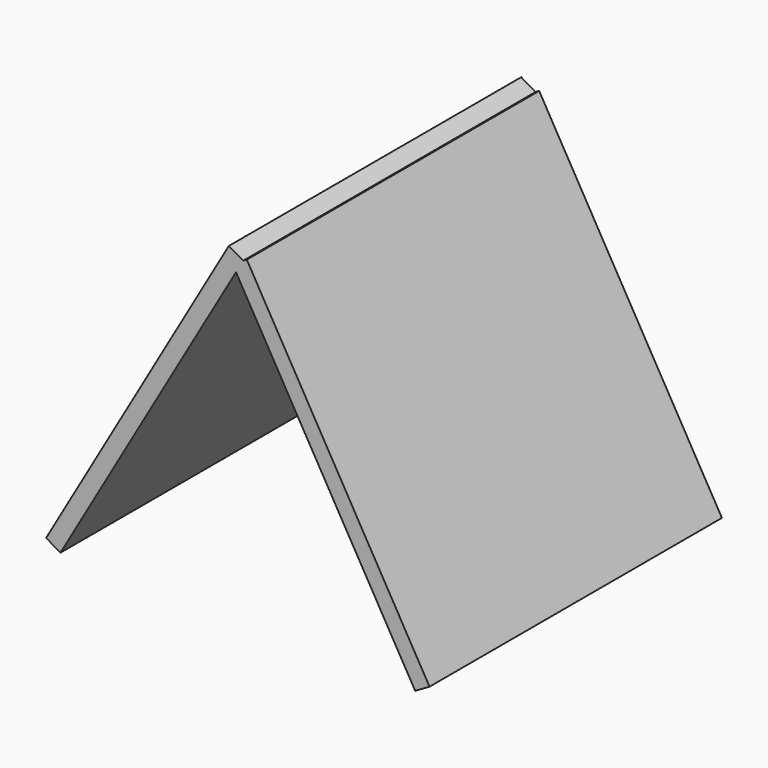
from build123d import *

# Parameters (mm, degrees)
F1_DEPTH = 5
F2_W     = 110
F2_H     = 110
F3_DEPTH = 2.5
F4_W     = 110
F4_H     = 110
F5_DEPTH = 2.5


with BuildPart() as f1:
    # F0 (on Front) → F1 (new body)
    with BuildSketch(Plane.XZ):
        Polygon((51.25, -29.589201), (0, 59.178403), (-51.25, -29.589201), align=None)
    extrude(amount=-F1_DEPTH)

    # F2 (on face) → F3 (join, symmetric)
    with BuildSketch(Plane(origin=(-25.625, 0, 14.794601), x_dir=(0, -1, 0), z_dir=(-0.866025, 0, 0.5))):
        with Locations((50, -3.75)):
            Rectangle(F2_W, F2_H)
    extrude(amount=F3_DEPTH, both=True)

    # F4 (on face) → F5 (join, symmetric)
    with BuildSketch(Plane(origin=(25.625, 0, 14.794601), x_dir=(0, 1, 0), z_dir=(0.866025, 0, 0.5))):
        with Locations((-50, -5.915064)):
            Rectangle(F4_W, F4_H)
    extrude(amount=F5_DEPTH, both=True)


solid = f1.part
